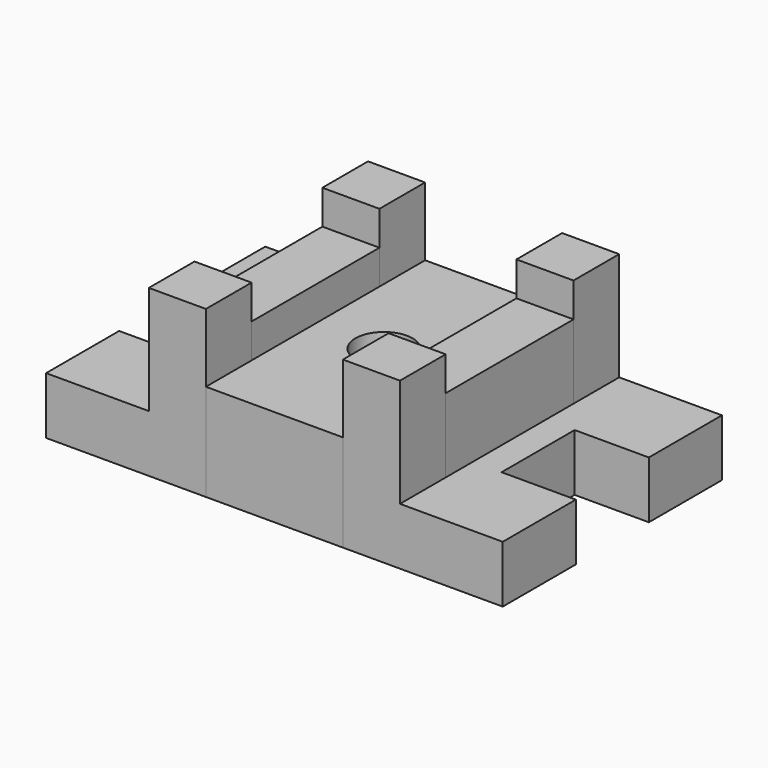
from build123d import *

# Parameters (mm, degrees)
F1_DEPTH = 31.75
F0_W     = 31.75
F0_H     = 31.75
F2_DEPTH = 92.075
F0_H_2   = 88.9
F3_DEPTH = 73.025
F0_R     = 15.875
F4_DEPTH = 53.975


with BuildPart() as f1:
    # F0 (on Top) → F1 (new body)
    with BuildSketch(Plane.XY):
        Polygon((107.377909, 99.608352), (50.227909, 99.608352), (50.227909, 67.858352), (50.227909, -21.041648), (50.227909, -52.791648), (107.377909, -52.791648), (107.377909, -1.991648), (66.102909, -1.991648), (66.102909, 48.808352), (107.377909, 48.808352), align=None)
        Polygon((-89.472091, 99.608352), (-146.622091, 99.608352), (-146.622091, 48.808352), (-105.347091, 48.808352), (-105.347091, -1.991648), (-146.622091, -1.991648), (-146.622091, -52.791648), (-89.472091, -52.791648), (-89.472091, -21.041648), (-89.472091, 67.858352), align=None)
    extrude(amount=F1_DEPTH)

    # F0 (on Top) → F2 (join)
    with BuildSketch(Plane.XY):
        with Locations((-73.597091, -36.916648)):
            Rectangle(F0_W, F0_H)
        with Locations((-73.597091, 83.733352)):
            Rectangle(F0_W, F0_H)
        with Locations((34.352909, 83.733352)):
            Rectangle(F0_W, F0_H)
        with Locations((34.352909, -36.916648)):
            Rectangle(F0_W, F0_H)
    extrude(amount=F2_DEPTH)


with BuildPart() as f3:
    # F0 (on Top) → F3 (new body)
    with BuildSketch(Plane.XY):
        with Locations((-73.597091, 23.408352)):
            Rectangle(F0_W, F0_H_2)
        with Locations((34.352909, 23.408352)):
            Rectangle(F0_W, F0_H_2)
    extrude(amount=F3_DEPTH)


with BuildPart() as f4:
    # F0 (on Top) → F4 (new body)
    with BuildSketch(Plane.XY):
        Polygon((18.477909, 99.608352), (-57.722091, 99.608352), (-57.722091, 67.858352), (-57.722091, -21.041648), (-57.722091, -52.791648), (18.477909, -52.791648), (18.477909, -21.041648), (18.477909, 67.858352), align=None)
        with Locations((-19.622091, 23.408352)):
            Circle(F0_R, mode=Mode.SUBTRACT)
    extrude(amount=F4_DEPTH)


solid = Compound([f1.part, f3.part, f4.part])
